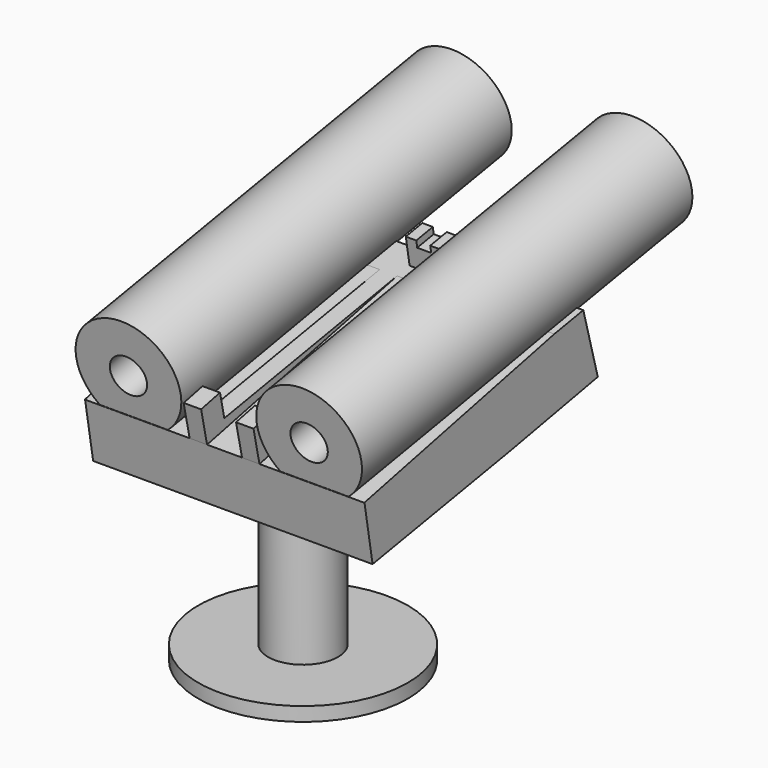
from build123d import *

# Parameters (mm, degrees)
F0_R      = 19.05
F1_DEPTH  = 2.54
F2_R      = 6.35
F3_DEPTH  = 25.4
F5_DEPTH  = 7.62
F7_DEPTH  = 7.62
F9_DEPTH  = 25.4
F11_DEPTH = 25.4
F13_DEPTH = 25.4
F15_DEPTH = 25.4
F16_W     = 19.05
F16_H     = 6.35
F17_DEPTH = 50.8
F18_W     = 19.05
F18_H     = 6.35
F19_DEPTH = 50.8
F21_DEPTH = 50.8
F23_DEPTH = 5.08
F25_DEPTH = 25.4
F26_R     = 9.525
F27_DEPTH = 76.2
F29_W     = 10
F29_H     = 10
F30_DEPTH = 71.12
F28_W     = 10
F28_H     = 10
F31_DEPTH = 71.12
F33_R     = 3.3655
F32_R     = 3.3655
F34_DEPTH = 25.4


with BuildPart() as f1:
    # F0 (on Top) → F1 (new body)
    with BuildSketch(Plane.XY):
        Circle(F0_R)
    extrude(amount=F1_DEPTH)

    # F2 (on face) → F3 (join)
    with BuildSketch(Plane.XY.offset(2.54)):
        Circle(F2_R)
    extrude(amount=F3_DEPTH)

    # F4 (on Right) → F5 (join)
    with BuildSketch(Plane.YZ):
        Polygon((-6.3969814219, 31.7939482629), (-6.3969814219, 27.4019930512), (12.6530185781, 27.4019930512), (12.6530185781, 35.0219930512), align=None)
    extrude(amount=F5_DEPTH)

    # F6 (on face) → F7 (join)
    with BuildSketch(Plane(origin=(0, 0, 0), x_dir=(0, -1, 0), z_dir=(-1, 0, 0))):
        Polygon((-12.6530185781, 35.0219930512), (-12.6530185781, 27.4019930512), (6.3969814219, 27.4019930512), (6.3969814219, 31.7939482629), align=None)
    extrude(amount=F7_DEPTH)

    # F8 (on Right) → F9 (join)
    with BuildSketch(Plane.YZ):
        Polygon((-15.9447137266, 30.0753582269), (15.3388162634, 35.4978347242), (35.2311320603, 39.2411798239), (31.9399436585, 51.2647326185), (-18.1137043255, 42.5887702229), align=None)
    extrude(amount=F9_DEPTH)

    # F10 (on face) → F11 (join)
    with BuildSketch(Plane(origin=(0, 0, 0), x_dir=(0, -1, 0), z_dir=(-1, 0, 0))):
        Polygon((-31.9399436585, 51.2647326185), (-35.2311320603, 39.2411798239), (15.9447137266, 30.0753582269), (18.1137043255, 42.5887702229), align=None)
    extrude(amount=F11_DEPTH)

    # F12 (on Right) → F13 (join)
    with BuildSketch(Plane.YZ):
        Polygon((-19.1909428686, 46.8793660402), (-17.8339676882, 40.6760509298), (-13.3405660695, 40.6760509298), (-14.9027385279, 47.8174107397), align=None)
    extrude(amount=F13_DEPTH)

    # F14 (on face) → F15 (join)
    with BuildSketch(Plane(origin=(0, 0, 0), x_dir=(0, -1, 0), z_dir=(-1, 0, 0))):
        Polygon((13.3405660695, 40.6760509298), (17.8339676882, 40.6760509298), (19.1909428686, 46.8793660402), (14.9027385279, 47.8174107397), align=None)
    extrude(amount=F15_DEPTH)

    # F16 (on face) → F17 (cut)
    with BuildSketch(Plane(origin=(0, -8.528003266, -1.8655007144), x_dir=(1, 0, 0), z_dir=(0, -0.9769000174, -0.2136968788))):
        with Locations((-15.875, 46.7224980926)):
            Rectangle(F16_W, F16_H)
    extrude(amount=-F17_DEPTH, mode=Mode.SUBTRACT)

    # F18 (on face) → F19 (cut)
    with BuildSketch(Plane(origin=(0, -8.528003266, -1.8655007144), x_dir=(1, 0, 0), z_dir=(0, -0.9769000174, -0.2136968788))):
        with Locations((15.875, 46.7224980926)):
            Rectangle(F18_W, F18_H)
    extrude(amount=-F19_DEPTH, mode=Mode.SUBTRACT)

    # F20 (on face) → F21 (cut)
    with BuildSketch(Plane(origin=(0, -8.528003266, -1.8655007144), x_dir=(1, 0, 0), z_dir=(0, -0.9769000174, -0.2136968788))):
        Polygon((3.175, 49.8974980926), (0, 49.8974980926), (-3.175, 49.8974980926), (-3.175, 43.5474980926), (3.175, 43.5474980926), align=None)
    extrude(amount=-F21_DEPTH, mode=Mode.SUBTRACT)

    # F22 (on face) → F23 (join)
    with BuildSketch(Plane(origin=(0, -7.6950725058, 44.3946657275), x_dir=(1, 0, 0), z_dir=(0, -0.1707866613, 0.9853080312))):
        Polygon((3.175, 40.2260155302), (0, 40.2260155302), (-3.175, 40.2260155302), (-3.175, 36.4160155302), (3.175, 36.4160155302), align=None)
    extrude(amount=F23_DEPTH)

    # F24 (on face) → F25 (cut)
    with BuildSketch(Plane(origin=(0, 39.6350161643, 6.870066891), x_dir=(-1, 0, 0), z_dir=(0, 0.9853080312, 0.1707866613))):
        Polygon((1.27, 50.1366364249), (0, 50.1366364249), (-1.27, 50.1366364249), (-1.27, 48.8666364249), (1.27, 48.8666364249), align=None)
    extrude(amount=-F25_DEPTH, mode=Mode.SUBTRACT)

    # F26 (on face) → F27 (join)
    with BuildSketch(Plane(origin=(0, -10.4186318197, -1.8058955046), x_dir=(1, 0, 0), z_dir=(0, -0.9853080312, -0.1707866613))):
        with Locations((-16.5175776929, 50.3802224994)):
            Circle(F26_R)
        with Locations((16.3266230375, 50.3802224994)):
            Circle(F26_R)
    extrude(amount=-F27_DEPTH)

    # F29 (on face) → F30 (cut)
    with BuildSketch(Plane(origin=(0, 64.6618401563, 11.2080480889), x_dir=(-1, 0, 0), z_dir=(0, 0.9853080312, 0.1707866613))):
        with Locations((16.5175776929, 50.3802224994)):
            Rectangle(F29_W, F29_H)
    extrude(amount=-F30_DEPTH, mode=Mode.SUBTRACT)

    # F28 (on face) → F31 (cut)
    with BuildSketch(Plane(origin=(0, 64.6618401563, 11.2080480889), x_dir=(-1, 0, 0), z_dir=(0, 0.9853080312, 0.1707866613))):
        with Locations((-16.3266230375, 50.3802224994)):
            Rectangle(F28_W, F28_H)
    extrude(amount=-F31_DEPTH, mode=Mode.SUBTRACT)

    # F33 (on face) + F32 (on face) → F34 (cut)
    with BuildSketch(Plane(origin=(0, -10.4186318197, -1.8058955046), x_dir=(1, 0, 0), z_dir=(0, -0.9853080312, -0.1707866613))):
        with Locations((16.3266230375, 50.3802224994)):
            Circle(F33_R)
    with BuildSketch(Plane(origin=(0, -10.4186318197, -1.8058955046), x_dir=(1, 0, 0), z_dir=(0, -0.9853080312, -0.1707866613))):
        with Locations((-16.5175776929, 50.3802224994)):
            Circle(F32_R)
    extrude(amount=-F34_DEPTH, mode=Mode.SUBTRACT)


solid = f1.part
